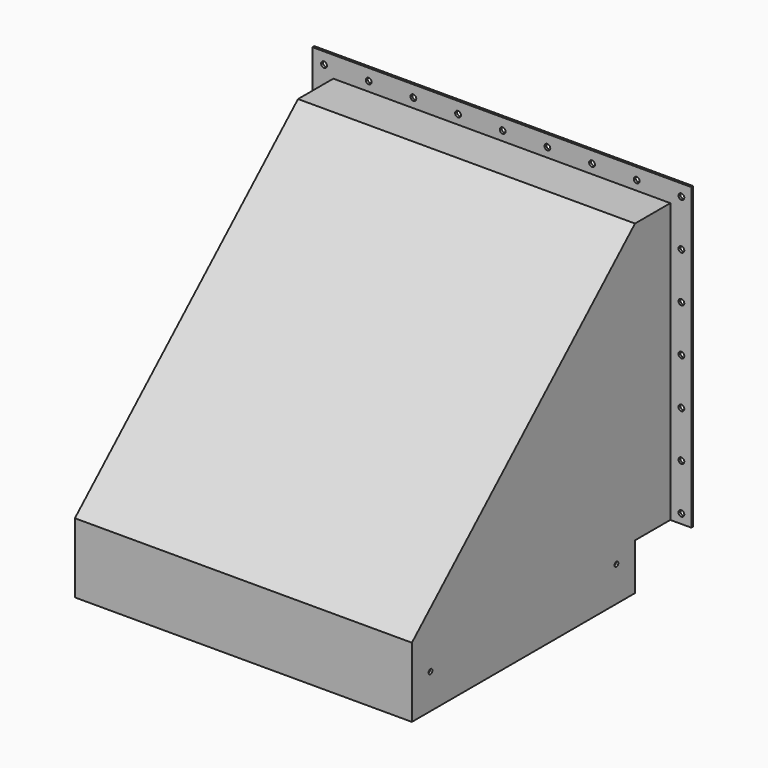
from build123d import *

# Parameters (mm, degrees)
F1_DEPTH  = 184.15
F2_T      = -2.54
F4_DEPTH  = 2.54
F5_W      = 363.22
F5_H      = 299.72
F5_W_2    = 337.82
F5_H_2    = 274.32
F6_DEPTH  = 2.54
F7_R      = 2.5796875
F8_DEPTH  = 391.161
F9_R      = 3.175
F10_DEPTH = 2.541


with BuildPart() as f1:
    # F0 (on Right) → F1 (new body, symmetric)
    with BuildSketch(Plane.YZ):
        Polygon((47.8071639518, 50.8), (98.6071639518, 50.8), (98.6071639518, 355.6), (47.8071639518, 355.6), (-256.9928360482, 76.2), (-256.9928360482, 0), (47.8071639518, 0), align=None)
    extrude(amount=F1_DEPTH, both=True)

    # F2
    f2_openings = [f1.faces().sort_by_distance(p)[0] for p in [
        (0, 98.607164, 203.2),
        (0, -104.592836, 0),
    ]]
    offset(amount=F2_T, openings=f2_openings, kind=Kind.INTERSECTION)

    # F3 (on face) → F4 (join)
    with BuildSketch(Plane(origin=(0, 98.6071639518, 0), x_dir=(-1, 0, 0), z_dir=(0, 1, 0))):
        Polygon((-207.01, 50.8), (-181.61, 50.8), (-181.61, 353.06), (181.61, 353.06), (181.61, 50.8), (207.01, 50.8), (207.01, 378.46), (-207.01, 378.46), align=None)
    extrude(amount=-F4_DEPTH)

    # F5 (on face) → F6 (join)
    with BuildSketch(Plane.XY.offset(53.34)):
        with Locations((0, -104.5928360482)):
            Rectangle(F5_W, F5_H)
        with Locations((0, -104.5928360482)):
            Rectangle(F5_W_2, F5_H_2, mode=Mode.SUBTRACT)
    extrude(amount=-F6_DEPTH)

    # F7 (on face) → F8 (cut, through all)
    with BuildSketch(Plane(origin=(-184.15, 0, 0), x_dir=(0, -1, 0), z_dir=(-1, 0, 0))):
        with Locations((-22.4071639518, 38.1)):
            Circle(F7_R)
        with Locations((231.5928360482, 38.1)):
            Circle(F7_R)
    extrude(amount=-F8_DEPTH, mode=Mode.SUBTRACT)

    # F9 (on face) → F10 (cut, through all)
    with BuildSketch(Plane.XZ.offset(-96.0671639518)):
        with Locations((-194.31, 365.76)):
            Circle(F9_R)
        with Locations((-194.31, 314.96)):
            Circle(F9_R)
        with Locations((-194.31, 264.16)):
            Circle(F9_R)
        with Locations((-194.31, 213.36)):
            Circle(F9_R)
        with Locations((-194.31, 162.56)):
            Circle(F9_R)
        with Locations((-194.31, 111.76)):
            Circle(F9_R)
        with Locations((-194.31, 60.96)):
            Circle(F9_R)
        with Locations((196.215, 365.76)):
            Circle(F9_R)
        with Locations((196.215, 314.96)):
            Circle(F9_R)
        with Locations((196.215, 264.16)):
            Circle(F9_R)
        with Locations((196.215, 213.36)):
            Circle(F9_R)
        with Locations((196.215, 162.56)):
            Circle(F9_R)
        with Locations((196.215, 111.76)):
            Circle(F9_R)
        with Locations((196.215, 60.96)):
            Circle(F9_R)
        with Locations((147.3962, 365.76)):
            Circle(F9_R)
        with Locations((98.5774, 365.76)):
            Circle(F9_R)
        with Locations((49.7586, 365.76)):
            Circle(F9_R)
        with Locations((0.9398, 365.76)):
            Circle(F9_R)
        with Locations((-47.879, 365.76)):
            Circle(F9_R)
        with Locations((-96.6978, 365.76)):
            Circle(F9_R)
        with Locations((-145.5166, 365.76)):
            Circle(F9_R)
    extrude(amount=-F10_DEPTH, mode=Mode.SUBTRACT)


solid = f1.part
